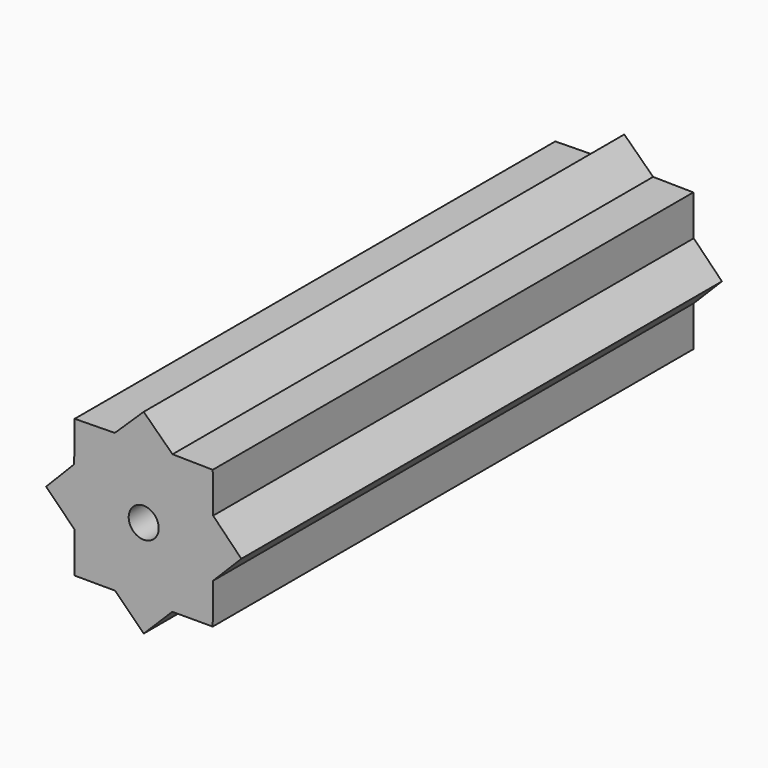
from build123d import *

# Parameters (mm, degrees)
F0_R     = 1
F1_DEPTH = 40


with BuildPart() as f1:
    # F0 (on Front) → F1 (new body)
    with BuildSketch(Plane.XZ):
        Polygon((4.60878, -1.909019), (6.5, 0), (4.623334, 1.915048), (4.596194, 4.596194), (1.920127, 4.635596), (0, 6.5), (-1.921266, 4.638347), (-4.596194, 4.596194), (-4.629959, 1.917792), (-6.5, 0), (-4.596194, -1.903806), (-4.596194, -4.596194), (-1.906697, -4.603175), (0, -6.5), (1.905567, -4.600445), (4.596194, -4.596194), align=None)
        Circle(F0_R, mode=Mode.SUBTRACT)
    extrude(amount=F1_DEPTH)


solid = f1.part
